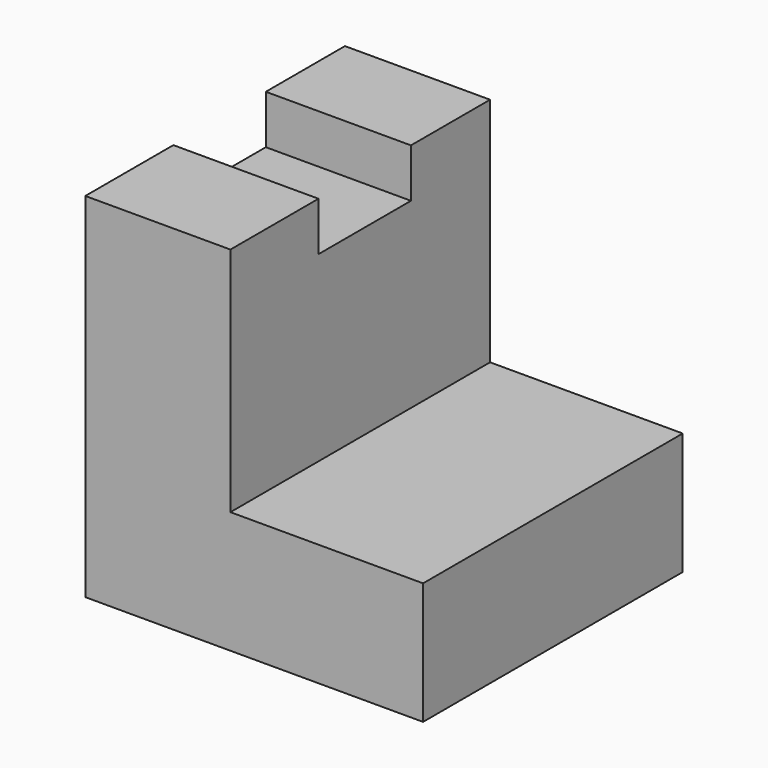
from build123d import *

# Parameters (mm, degrees)
F1_DEPTH = 25.4
F2_W     = 9.046357
F2_H     = 3.819572
F3_DEPTH = 25.4


with BuildPart() as f1:
    # F0 (on Front) → F1 (new body)
    with BuildSketch(Plane.XZ):
        Polygon((0, 27.641645), (0, 0), (26.435465, 0), (26.435465, 9.548932), (11.358204, 9.548932), (11.358204, 27.641645), align=None)
    extrude(amount=F1_DEPTH)

    # F2 (on face) → F3 (cut)
    with BuildSketch(Plane.YZ.offset(11.358204)):
        with Locations((-12.262839, 25.731859)):
            Rectangle(F2_W, F2_H)
    extrude(amount=-F3_DEPTH, mode=Mode.SUBTRACT)


solid = f1.part
